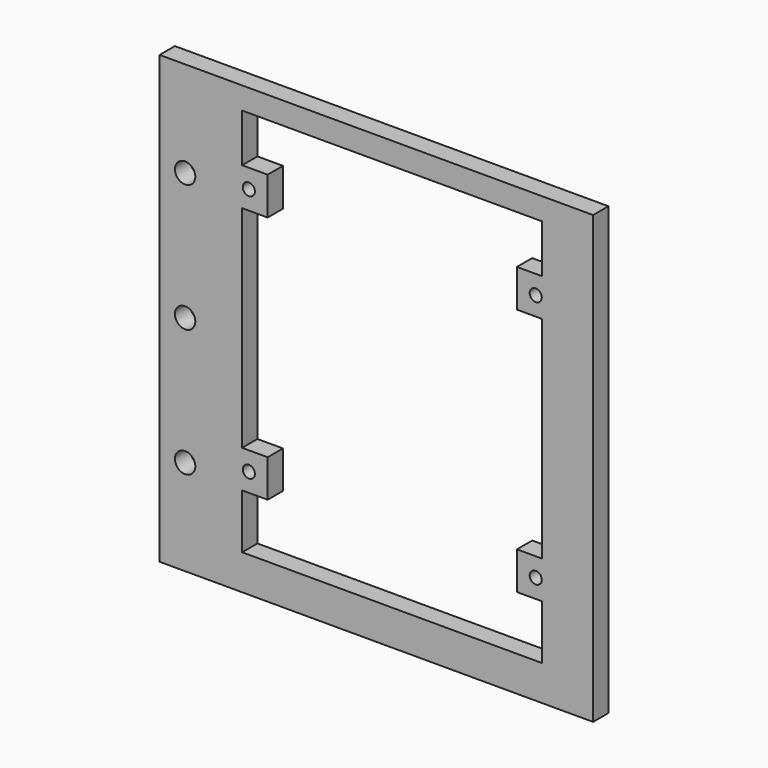
from build123d import *

# Parameters (mm, degrees)
F0_W     = 68
F0_H     = 70
F0_R     = 1.6
F0_R_2   = 0.95
F1_DEPTH = 3


with BuildPart() as f1:
    # F0 (on Front) → F1 (new body)
    with BuildSketch(Plane.XZ):
        with Locations((3.531757, -8.419635)):
            Rectangle(F0_W, F0_H)
        with Locations((-26.468243, -28.419635)):
            Circle(F0_R, mode=Mode.SUBTRACT)
        with Locations((-16.468243, -26.419635)):
            Circle(F0_R_2, mode=Mode.SUBTRACT)
        with Locations((28.531757, -26.419635)):
            Circle(F0_R_2, mode=Mode.SUBTRACT)
        with Locations((-26.468243, -8.419635)):
            Circle(F0_R, mode=Mode.SUBTRACT)
        with Locations((-26.468243, 11.580365)):
            Circle(F0_R, mode=Mode.SUBTRACT)
        with Locations((-16.468243, 12.580365)):
            Circle(F0_R_2, mode=Mode.SUBTRACT)
        Polygon((-17.518243, 15.556515), (-17.518243, 23.106515), (29.481757, 23.106515), (29.481757, 15.530365), (25.581757, 15.530365), (25.581757, 9.630365), (29.481757, 9.630365), (29.481757, -23.469635), (25.581757, -23.469635), (25.581757, -29.369635), (29.481757, -29.369635), (29.481757, -37.893485), (-17.518243, -37.893485), (-17.518243, -29.343485), (-13.518243, -29.343485), (-13.518243, -23.469635), (-17.518243, -23.469635), (-17.518243, 9.630365), (-13.518243, 9.630365), (-13.518243, 15.556515), align=None, mode=Mode.SUBTRACT)
        with Locations((28.531757, 12.580365)):
            Circle(F0_R_2, mode=Mode.SUBTRACT)
        with Locations((3.531757, -8.419635)):
            Rectangle(F0_W, F0_H)
        with Locations((-26.468243, -28.419635)):
            Circle(F0_R, mode=Mode.SUBTRACT)
        with Locations((-16.468243, -26.419635)):
            Circle(F0_R_2, mode=Mode.SUBTRACT)
        with Locations((28.531757, -26.419635)):
            Circle(F0_R_2, mode=Mode.SUBTRACT)
        with Locations((-26.468243, -8.419635)):
            Circle(F0_R, mode=Mode.SUBTRACT)
        with Locations((-26.468243, 11.580365)):
            Circle(F0_R, mode=Mode.SUBTRACT)
        with Locations((-16.468243, 12.580365)):
            Circle(F0_R_2, mode=Mode.SUBTRACT)
        Polygon((-17.518243, 15.556515), (-17.518243, 23.106515), (29.481757, 23.106515), (29.481757, 15.530365), (25.581757, 15.530365), (25.581757, 9.630365), (29.481757, 9.630365), (29.481757, -23.469635), (25.581757, -23.469635), (25.581757, -29.369635), (29.481757, -29.369635), (29.481757, -37.893485), (-17.518243, -37.893485), (-17.518243, -29.343485), (-13.518243, -29.343485), (-13.518243, -23.469635), (-17.518243, -23.469635), (-17.518243, 9.630365), (-13.518243, 9.630365), (-13.518243, 15.556515), align=None, mode=Mode.SUBTRACT)
        with Locations((28.531757, 12.580365)):
            Circle(F0_R_2, mode=Mode.SUBTRACT)
        with Locations((3.531757, -8.419635)):
            Rectangle(F0_W, F0_H)
        with Locations((-26.468243, -28.419635)):
            Circle(F0_R, mode=Mode.SUBTRACT)
        with Locations((-16.468243, -26.419635)):
            Circle(F0_R_2, mode=Mode.SUBTRACT)
        with Locations((28.531757, -26.419635)):
            Circle(F0_R_2, mode=Mode.SUBTRACT)
        with Locations((-26.468243, -8.419635)):
            Circle(F0_R, mode=Mode.SUBTRACT)
        with Locations((-26.468243, 11.580365)):
            Circle(F0_R, mode=Mode.SUBTRACT)
        with Locations((-16.468243, 12.580365)):
            Circle(F0_R_2, mode=Mode.SUBTRACT)
        Polygon((-17.518243, 15.556515), (-17.518243, 23.106515), (29.481757, 23.106515), (29.481757, 15.530365), (25.581757, 15.530365), (25.581757, 9.630365), (29.481757, 9.630365), (29.481757, -23.469635), (25.581757, -23.469635), (25.581757, -29.369635), (29.481757, -29.369635), (29.481757, -37.893485), (-17.518243, -37.893485), (-17.518243, -29.343485), (-13.518243, -29.343485), (-13.518243, -23.469635), (-17.518243, -23.469635), (-17.518243, 9.630365), (-13.518243, 9.630365), (-13.518243, 15.556515), align=None, mode=Mode.SUBTRACT)
        with Locations((28.531757, 12.580365)):
            Circle(F0_R_2, mode=Mode.SUBTRACT)
        with Locations((3.531757, -8.419635)):
            Rectangle(F0_W, F0_H)
        with Locations((-26.468243, -28.419635)):
            Circle(F0_R, mode=Mode.SUBTRACT)
        with Locations((-16.468243, -26.419635)):
            Circle(F0_R_2, mode=Mode.SUBTRACT)
        with Locations((28.531757, -26.419635)):
            Circle(F0_R_2, mode=Mode.SUBTRACT)
        with Locations((-26.468243, -8.419635)):
            Circle(F0_R, mode=Mode.SUBTRACT)
        with Locations((-26.468243, 11.580365)):
            Circle(F0_R, mode=Mode.SUBTRACT)
        with Locations((-16.468243, 12.580365)):
            Circle(F0_R_2, mode=Mode.SUBTRACT)
        Polygon((-17.518243, 15.556515), (-17.518243, 23.106515), (29.481757, 23.106515), (29.481757, 15.530365), (25.581757, 15.530365), (25.581757, 9.630365), (29.481757, 9.630365), (29.481757, -23.469635), (25.581757, -23.469635), (25.581757, -29.369635), (29.481757, -29.369635), (29.481757, -37.893485), (-17.518243, -37.893485), (-17.518243, -29.343485), (-13.518243, -29.343485), (-13.518243, -23.469635), (-17.518243, -23.469635), (-17.518243, 9.630365), (-13.518243, 9.630365), (-13.518243, 15.556515), align=None, mode=Mode.SUBTRACT)
        with Locations((28.531757, 12.580365)):
            Circle(F0_R_2, mode=Mode.SUBTRACT)
        with Locations((3.531757, -8.419635)):
            Rectangle(F0_W, F0_H)
        with Locations((-26.468243, -28.419635)):
            Circle(F0_R, mode=Mode.SUBTRACT)
        with Locations((-16.468243, -26.419635)):
            Circle(F0_R_2, mode=Mode.SUBTRACT)
        with Locations((28.531757, -26.419635)):
            Circle(F0_R_2, mode=Mode.SUBTRACT)
        with Locations((-26.468243, -8.419635)):
            Circle(F0_R, mode=Mode.SUBTRACT)
        with Locations((-26.468243, 11.580365)):
            Circle(F0_R, mode=Mode.SUBTRACT)
        with Locations((-16.468243, 12.580365)):
            Circle(F0_R_2, mode=Mode.SUBTRACT)
        Polygon((-17.518243, 15.556515), (-17.518243, 23.106515), (29.481757, 23.106515), (29.481757, 15.530365), (25.581757, 15.530365), (25.581757, 9.630365), (29.481757, 9.630365), (29.481757, -23.469635), (25.581757, -23.469635), (25.581757, -29.369635), (29.481757, -29.369635), (29.481757, -37.893485), (-17.518243, -37.893485), (-17.518243, -29.343485), (-13.518243, -29.343485), (-13.518243, -23.469635), (-17.518243, -23.469635), (-17.518243, 9.630365), (-13.518243, 9.630365), (-13.518243, 15.556515), align=None, mode=Mode.SUBTRACT)
        with Locations((28.531757, 12.580365)):
            Circle(F0_R_2, mode=Mode.SUBTRACT)
    extrude(amount=F1_DEPTH)


solid = f1.part
